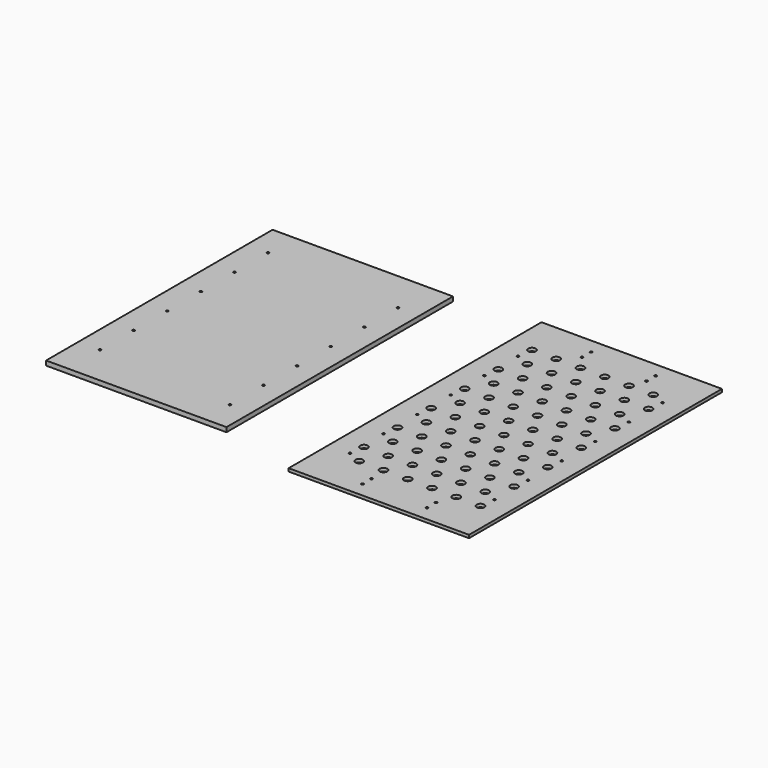
from build123d import *

# Parameters (mm, degrees)
F0_W     = 238
F0_H     = 373.5
F0_R     = 1.5
F1_DEPTH = 6
F2_R     = 1.55
F2_R_2   = 5
F2_R_3   = 1.5
F3_DEPTH = 4


with BuildPart() as f1:
    # F0 (on Top) → F1 (new body)
    with BuildSketch(Plane.XY):
        Rectangle(F0_W, F0_H)
        with Locations((-90.5, -133.356)):
            Circle(F0_R, mode=Mode.SUBTRACT)
        with Locations((-90.5, -77.931)):
            Circle(F0_R, mode=Mode.SUBTRACT)
        with Locations((-90.5, -22.506)):
            Circle(F0_R, mode=Mode.SUBTRACT)
        with Locations((90.5, -145.481)):
            Circle(F0_R, mode=Mode.SUBTRACT)
        with Locations((90.5, -90.056)):
            Circle(F0_R, mode=Mode.SUBTRACT)
        with Locations((90.5, -34.631)):
            Circle(F0_R, mode=Mode.SUBTRACT)
        with Locations((-90.5, 32.919)):
            Circle(F0_R, mode=Mode.SUBTRACT)
        with Locations((-90.5, 88.344)):
            Circle(F0_R, mode=Mode.SUBTRACT)
        with Locations((-90.5, 143.769)):
            Circle(F0_R, mode=Mode.SUBTRACT)
        with Locations((90.5, 20.794)):
            Circle(F0_R, mode=Mode.SUBTRACT)
        with Locations((90.5, 76.219)):
            Circle(F0_R, mode=Mode.SUBTRACT)
        with Locations((90.5, 131.644)):
            Circle(F0_R, mode=Mode.SUBTRACT)
    extrude(amount=F1_DEPTH)


with BuildPart() as f3:
    # F2 (on face) → F3 (new body)
    with BuildSketch(Plane(origin=(0, 0, 0), x_dir=(1, 0, 0), z_dir=(0, 0, -1))):
        with BuildLine():
            Line((457, -207.75), (457, -186.75))
            Line((457, -186.75), (386.684272, -186.75))
            ThreePointArc((386.684272, -186.75), (386.955699, -187.21761), (387.05, -187.75))
            ThreePointArc((387.05, -187.75), (384.96761, -189.205699), (384.315728, -186.75))
            Line((384.315728, -186.75), (301.684272, -186.75))
            ThreePointArc((301.684272, -186.75), (301.955699, -187.21761), (302.05, -187.75))
            ThreePointArc((302.05, -187.75), (299.96761, -189.205699), (299.315728, -186.75))
            Line((299.315728, -186.75), (219, -186.75))
            Line((219, -186.75), (219, -207.75))
            Line((219, -207.75), (457, -207.75))
        make_face()
        with BuildLine():
            Line((386.684272, 188.25), (457, 188.25))
            Line((457, 188.25), (457, 209.25))
            Line((457, 209.25), (219, 209.25))
            Line((219, 209.25), (219, 188.25))
            Line((219, 188.25), (299.315728, 188.25))
            ThreePointArc((299.315728, 188.25), (299.96761, 190.705699), (302.05, 189.25))
            ThreePointArc((302.05, 189.25), (301.955699, 188.71761), (301.684272, 188.25))
            Line((301.684272, 188.25), (384.315728, 188.25))
            ThreePointArc((384.315728, 188.25), (384.96761, 190.705699), (387.05, 189.25))
            ThreePointArc((387.05, 189.25), (386.955699, 188.71761), (386.684272, 188.25))
        make_face()
        with BuildLine():
            Line((386.684272, -186.75), (457, -186.75))
            Line((457, -186.75), (457, 188.25))
            Line((457, 188.25), (386.684272, 188.25))
            ThreePointArc((386.684272, 188.25), (385.5, 187.7), (384.315728, 188.25))
            Line((384.315728, 188.25), (301.684272, 188.25))
            ThreePointArc((301.684272, 188.25), (300.5, 187.7), (299.315728, 188.25))
            Line((299.315728, 188.25), (219, 188.25))
            Line((219, 188.25), (219, -186.75))
            Line((219, -186.75), (299.315728, -186.75))
            ThreePointArc((299.315728, -186.75), (300.5, -186.2), (301.684272, -186.75))
            Line((301.684272, -186.75), (384.315728, -186.75))
            ThreePointArc((384.315728, -186.75), (385.5, -186.2), (386.684272, -186.75))
        make_face()
        with Locations((300.5, -172.75)):
            Circle(F2_R, mode=Mode.SUBTRACT)
        with Locations((250, -153.275)):
            Circle(F2_R_2, mode=Mode.SUBTRACT)
        with Locations((247.5, -133.356)):
            Circle(F2_R_3, mode=Mode.SUBTRACT)
        with Locations((282, -153.275)):
            Circle(F2_R_2, mode=Mode.SUBTRACT)
        with Locations((266, -125.562)):
            Circle(F2_R_2, mode=Mode.SUBTRACT)
        with Locations((298, -125.562)):
            Circle(F2_R_2, mode=Mode.SUBTRACT)
        with Locations((385.5, -172.75)):
            Circle(F2_R, mode=Mode.SUBTRACT)
        with Locations((314, -153.275)):
            Circle(F2_R_2, mode=Mode.SUBTRACT)
        with Locations((346, -153.275)):
            Circle(F2_R_2, mode=Mode.SUBTRACT)
        with Locations((378, -153.275)):
            Circle(F2_R_2, mode=Mode.SUBTRACT)
        with Locations((330, -125.562)):
            Circle(F2_R_2, mode=Mode.SUBTRACT)
        with Locations((362, -125.562)):
            Circle(F2_R_2, mode=Mode.SUBTRACT)
        with Locations((410, -153.275)):
            Circle(F2_R_2, mode=Mode.SUBTRACT)
        with Locations((428.5, -145.481)):
            Circle(F2_R_3, mode=Mode.SUBTRACT)
        with Locations((394, -125.562)):
            Circle(F2_R_2, mode=Mode.SUBTRACT)
        with Locations((426, -125.562)):
            Circle(F2_R_2, mode=Mode.SUBTRACT)
        with Locations((250, -97.849)):
            Circle(F2_R_2, mode=Mode.SUBTRACT)
        with Locations((247.5, -77.931)):
            Circle(F2_R_3, mode=Mode.SUBTRACT)
        with Locations((282, -97.849)):
            Circle(F2_R_2, mode=Mode.SUBTRACT)
        with Locations((266, -70.136)):
            Circle(F2_R_2, mode=Mode.SUBTRACT)
        with Locations((298, -70.136)):
            Circle(F2_R_2, mode=Mode.SUBTRACT)
        with Locations((250, -42.423)):
            Circle(F2_R_2, mode=Mode.SUBTRACT)
        with Locations((282, -42.423)):
            Circle(F2_R_2, mode=Mode.SUBTRACT)
        with Locations((247.5, -22.506)):
            Circle(F2_R_3, mode=Mode.SUBTRACT)
        with Locations((266, -14.71)):
            Circle(F2_R_2, mode=Mode.SUBTRACT)
        with Locations((298, -14.71)):
            Circle(F2_R_2, mode=Mode.SUBTRACT)
        with Locations((314, -97.849)):
            Circle(F2_R_2, mode=Mode.SUBTRACT)
        with Locations((346, -97.849)):
            Circle(F2_R_2, mode=Mode.SUBTRACT)
        with Locations((378, -97.849)):
            Circle(F2_R_2, mode=Mode.SUBTRACT)
        with Locations((330, -70.136)):
            Circle(F2_R_2, mode=Mode.SUBTRACT)
        with Locations((362, -70.136)):
            Circle(F2_R_2, mode=Mode.SUBTRACT)
        with Locations((410, -97.849)):
            Circle(F2_R_2, mode=Mode.SUBTRACT)
        with Locations((428.5, -90.056)):
            Circle(F2_R_3, mode=Mode.SUBTRACT)
        with Locations((394, -70.136)):
            Circle(F2_R_2, mode=Mode.SUBTRACT)
        with Locations((426, -70.136)):
            Circle(F2_R_2, mode=Mode.SUBTRACT)
        with Locations((314, -42.423)):
            Circle(F2_R_2, mode=Mode.SUBTRACT)
        with Locations((346, -42.423)):
            Circle(F2_R_2, mode=Mode.SUBTRACT)
        with Locations((378, -42.423)):
            Circle(F2_R_2, mode=Mode.SUBTRACT)
        with Locations((330, -14.71)):
            Circle(F2_R_2, mode=Mode.SUBTRACT)
        with Locations((362, -14.71)):
            Circle(F2_R_2, mode=Mode.SUBTRACT)
        with Locations((410, -42.423)):
            Circle(F2_R_2, mode=Mode.SUBTRACT)
        with Locations((428.5, -34.631)):
            Circle(F2_R_3, mode=Mode.SUBTRACT)
        with Locations((394, -14.71)):
            Circle(F2_R_2, mode=Mode.SUBTRACT)
        with Locations((426, -14.71)):
            Circle(F2_R_2, mode=Mode.SUBTRACT)
        with Locations((250, 13.003)):
            Circle(F2_R_2, mode=Mode.SUBTRACT)
        with Locations((282, 13.003)):
            Circle(F2_R_2, mode=Mode.SUBTRACT)
        with Locations((247.5, 32.919)):
            Circle(F2_R_3, mode=Mode.SUBTRACT)
        with Locations((266, 40.716)):
            Circle(F2_R_2, mode=Mode.SUBTRACT)
        with Locations((298, 40.716)):
            Circle(F2_R_2, mode=Mode.SUBTRACT)
        with Locations((250, 68.429)):
            Circle(F2_R_2, mode=Mode.SUBTRACT)
        with Locations((282, 68.429)):
            Circle(F2_R_2, mode=Mode.SUBTRACT)
        with Locations((247.5, 88.344)):
            Circle(F2_R_3, mode=Mode.SUBTRACT)
        with Locations((266, 96.142)):
            Circle(F2_R_2, mode=Mode.SUBTRACT)
        with Locations((298, 96.142)):
            Circle(F2_R_2, mode=Mode.SUBTRACT)
        with Locations((314, 13.003)):
            Circle(F2_R_2, mode=Mode.SUBTRACT)
        with Locations((346, 13.003)):
            Circle(F2_R_2, mode=Mode.SUBTRACT)
        with Locations((378, 13.003)):
            Circle(F2_R_2, mode=Mode.SUBTRACT)
        with Locations((330, 40.716)):
            Circle(F2_R_2, mode=Mode.SUBTRACT)
        with Locations((362, 40.716)):
            Circle(F2_R_2, mode=Mode.SUBTRACT)
        with Locations((410, 13.003)):
            Circle(F2_R_2, mode=Mode.SUBTRACT)
        with Locations((428.5, 20.794)):
            Circle(F2_R_3, mode=Mode.SUBTRACT)
        with Locations((394, 40.716)):
            Circle(F2_R_2, mode=Mode.SUBTRACT)
        with Locations((426, 40.716)):
            Circle(F2_R_2, mode=Mode.SUBTRACT)
        with Locations((314, 68.429)):
            Circle(F2_R_2, mode=Mode.SUBTRACT)
        with Locations((346, 68.429)):
            Circle(F2_R_2, mode=Mode.SUBTRACT)
        with Locations((378, 68.429)):
            Circle(F2_R_2, mode=Mode.SUBTRACT)
        with Locations((330, 96.142)):
            Circle(F2_R_2, mode=Mode.SUBTRACT)
        with Locations((362, 96.142)):
            Circle(F2_R_2, mode=Mode.SUBTRACT)
        with Locations((410, 68.429)):
            Circle(F2_R_2, mode=Mode.SUBTRACT)
        with Locations((428.5, 76.219)):
            Circle(F2_R_3, mode=Mode.SUBTRACT)
        with Locations((394, 96.142)):
            Circle(F2_R_2, mode=Mode.SUBTRACT)
        with Locations((426, 96.142)):
            Circle(F2_R_2, mode=Mode.SUBTRACT)
        with Locations((250, 123.855)):
            Circle(F2_R_2, mode=Mode.SUBTRACT)
        with Locations((282, 123.855)):
            Circle(F2_R_2, mode=Mode.SUBTRACT)
        with Locations((247.5, 143.769)):
            Circle(F2_R_3, mode=Mode.SUBTRACT)
        with Locations((266, 151.568)):
            Circle(F2_R_2, mode=Mode.SUBTRACT)
        with Locations((298, 151.568)):
            Circle(F2_R_2, mode=Mode.SUBTRACT)
        with Locations((300.5, 174.25)):
            Circle(F2_R, mode=Mode.SUBTRACT)
        with Locations((314, 123.855)):
            Circle(F2_R_2, mode=Mode.SUBTRACT)
        with Locations((346, 123.855)):
            Circle(F2_R_2, mode=Mode.SUBTRACT)
        with Locations((378, 123.855)):
            Circle(F2_R_2, mode=Mode.SUBTRACT)
        with Locations((330, 151.568)):
            Circle(F2_R_2, mode=Mode.SUBTRACT)
        with Locations((362, 151.568)):
            Circle(F2_R_2, mode=Mode.SUBTRACT)
        with Locations((410, 123.855)):
            Circle(F2_R_2, mode=Mode.SUBTRACT)
        with Locations((394, 151.568)):
            Circle(F2_R_2, mode=Mode.SUBTRACT)
        with Locations((428.5, 131.644)):
            Circle(F2_R_3, mode=Mode.SUBTRACT)
        with Locations((426, 151.568)):
            Circle(F2_R_2, mode=Mode.SUBTRACT)
        with Locations((385.5, 174.25)):
            Circle(F2_R, mode=Mode.SUBTRACT)
    extrude(amount=F3_DEPTH)


solid = Compound([f1.part, f3.part])
